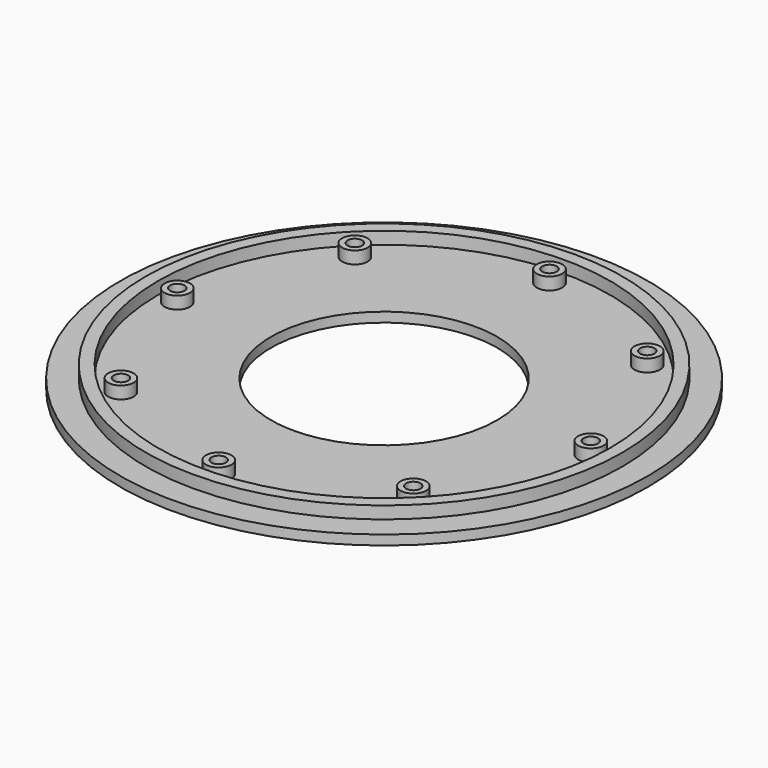
from build123d import *

# Parameters (mm, degrees)
SKETCH_R      = 60
SKETCH_R_2    = 25.7
SKETCH_R_3    = 1.75
PAD_DEPTH     = 2.2
SKETCH001_R   = 54.2
SKETCH001_R_2 = 51.4
SKETCH001_R_3 = 2.9
SKETCH001_R_4 = 1.65
PAD001_DEPTH  = 5


with BuildPart() as part:
    # Sketch → Pad (new body)
    with BuildSketch(Plane.XY):
        Circle(SKETCH_R)
        Circle(SKETCH_R_2, mode=Mode.SUBTRACT)
        with Locations((0, 47.75)):
            Circle(SKETCH_R_3, mode=Mode.SUBTRACT)
        with Locations((33.764349, 33.764349)):
            Circle(SKETCH_R_3, mode=Mode.SUBTRACT)
        with Locations((47.75, 0)):
            Circle(SKETCH_R_3, mode=Mode.SUBTRACT)
        with Locations((33.764349, -33.764349)):
            Circle(SKETCH_R_3, mode=Mode.SUBTRACT)
        with Locations((0, -47.75)):
            Circle(SKETCH_R_3, mode=Mode.SUBTRACT)
        with Locations((-33.764349, -33.764349)):
            Circle(SKETCH_R_3, mode=Mode.SUBTRACT)
        with Locations((-47.75, 0)):
            Circle(SKETCH_R_3, mode=Mode.SUBTRACT)
        with Locations((-33.764349, 33.764349)):
            Circle(SKETCH_R_3, mode=Mode.SUBTRACT)
    extrude(amount=PAD_DEPTH)

    # Sketch001 → Pad001 (join)
    with BuildSketch(Plane.XY):
        Circle(SKETCH001_R)
        Circle(SKETCH001_R_2, mode=Mode.SUBTRACT)
        with Locations((0, 47)):
            Circle(SKETCH001_R_3)
        with Locations((0, 47)):
            Circle(SKETCH001_R_4, mode=Mode.SUBTRACT)
        with Locations((33.234019, 33.234019)):
            Circle(SKETCH001_R_3)
        with Locations((33.234019, 33.234019)):
            Circle(SKETCH001_R_4, mode=Mode.SUBTRACT)
        with Locations((47, 0)):
            Circle(SKETCH001_R_3)
        with Locations((47, 0)):
            Circle(SKETCH001_R_4, mode=Mode.SUBTRACT)
        with Locations((33.234019, -33.234019)):
            Circle(SKETCH001_R_3)
        with Locations((33.234019, -33.234019)):
            Circle(SKETCH001_R_4, mode=Mode.SUBTRACT)
        with Locations((0, -47)):
            Circle(SKETCH001_R_3)
        with Locations((0, -47)):
            Circle(SKETCH001_R_4, mode=Mode.SUBTRACT)
        with Locations((-33.234019, -33.234019)):
            Circle(SKETCH001_R_3)
        with Locations((-33.234019, -33.234019)):
            Circle(SKETCH001_R_4, mode=Mode.SUBTRACT)
        with Locations((-47, 0)):
            Circle(SKETCH001_R_3)
        with Locations((-47, 0)):
            Circle(SKETCH001_R_4, mode=Mode.SUBTRACT)
        with Locations((-33.234019, 33.234019)):
            Circle(SKETCH001_R_3)
        with Locations((-33.234019, 33.234019)):
            Circle(SKETCH001_R_4, mode=Mode.SUBTRACT)
    extrude(amount=PAD001_DEPTH)


solid = part.part
